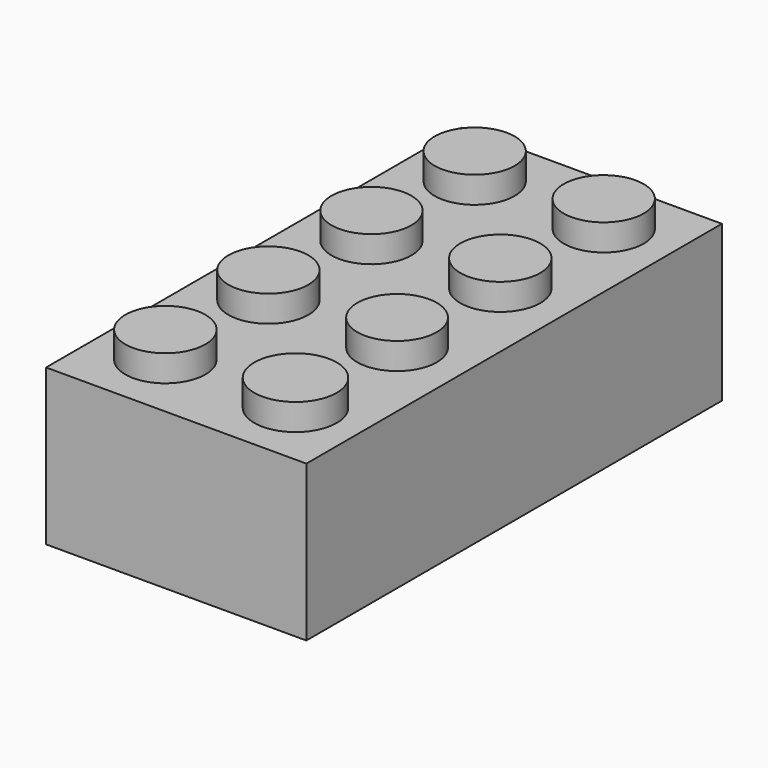
from build123d import *

# Parameters (mm, degrees)
F0_W     = 15.961588
F0_H     = 31.8516
F1_DEPTH = 9.5504
F2_R     = 2.4511
F2_R_2   = 2.45538
F2_R_3   = 2.4384
F2_R_4   = 2.456079
F2_R_5   = 2.527515
F3_DEPTH = 1.6256
F4_W     = 13.3858
F4_H     = 29.21
F5_DEPTH = 8.128
F6_R     = 3.2258
F7_DEPTH = 8.128
F8_R     = 2.45745
F8_R_2   = 2.4638
F8_R_3   = 2.46801
F9_DEPTH = 8.128


with BuildPart() as f1:
    # F0 (on Top) → F1 (new body)
    with BuildSketch(Plane.XY):
        with Locations((-2.669887, -6.674428)):
            Rectangle(F0_W, F0_H)
    extrude(amount=F1_DEPTH)

    # F2 (on face) → F3 (join)
    with BuildSketch(Plane.XY.offset(9.5504)):
        with Locations((-6.691177, 5.301672)):
            Circle(F2_R)
        with Locations((1.221202, 5.301672)):
            Circle(F2_R)
        with Locations((-6.700981, -2.597722)):
            Circle(F2_R)
        with Locations((1.202697, -2.601986)):
            Circle(F2_R_2)
        with Locations((-6.700981, -10.497122)):
            Circle(F2_R)
        with Locations((1.185718, -10.492948)):
            Circle(F2_R_3)
        with Locations((-6.696002, -18.4015)):
            Circle(F2_R_4)
        with Locations((1.284792, -18.4015)):
            Circle(F2_R_5)
    extrude(amount=F3_DEPTH)

    # F4 (on face) → F5 (cut)
    with BuildSketch(Plane(origin=(0, 0, 0), x_dir=(1, 0, 0), z_dir=(0, 0, -1))):
        with Locations((-2.522681, 6.624205)):
            Rectangle(F4_W, F4_H)
    extrude(amount=-F5_DEPTH, mode=Mode.SUBTRACT)

    # F6 (on face) → F7 (join)
    with BuildSketch(Plane(origin=(0, 0, 8.128), x_dir=(1, 0, 0), z_dir=(0, 0, -1))):
        with Locations((-2.446481, 15.455625)):
            Circle(F6_R)
        with Locations((-2.598881, 7.355534)):
            Circle(F6_R)
        with Locations((-2.586181, -1.323137)):
            Circle(F6_R)
    extrude(amount=F7_DEPTH)

    # F8 (on face) → F9 (cut)
    with BuildSketch(Plane(origin=(0, 0, 0), x_dir=(1, 0, 0), z_dir=(0, 0, -1))):
        with Locations((-2.446481, 15.455625)):
            Circle(F8_R)
        with Locations((-2.598881, 7.355534)):
            Circle(F8_R_2)
        with Locations((-2.583271, -1.326179)):
            Circle(F8_R_3)
    extrude(amount=-F9_DEPTH, mode=Mode.SUBTRACT)


solid = f1.part
